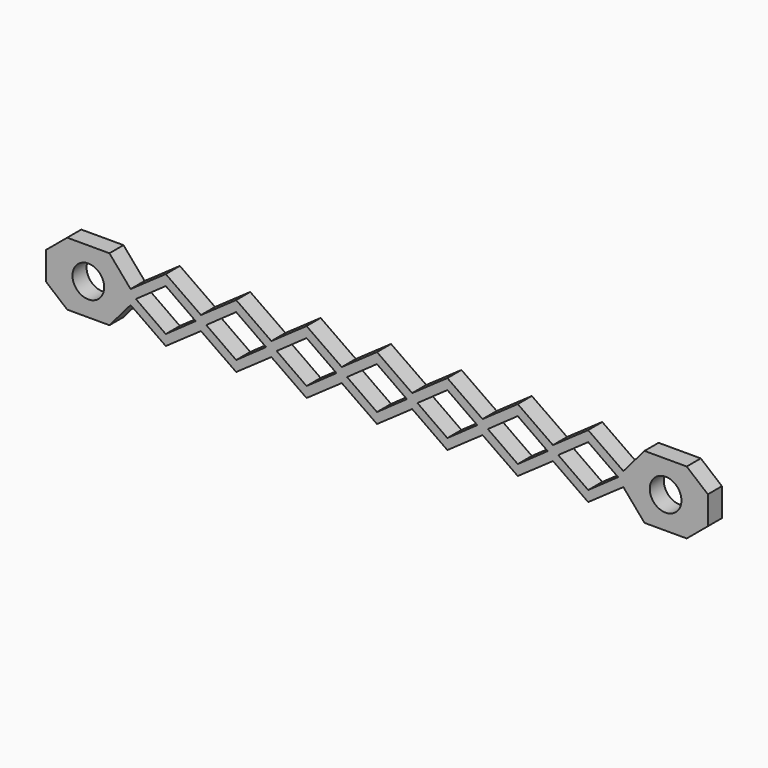
from build123d import *

# Parameters (mm, degrees)
F1_DEPTH = 2.5
F4_DEPTH = 2.5
F5_R     = 2.25
F6_DEPTH = 2.5


with BuildPart() as f1:
    # F0 (on Front) → F1 (new body)
    with BuildSketch(Plane.XZ):
        Polygon((0, 0), (70, 0), (82, 0), (82, 2), (79, 4.5), (73, 4.5), (70, 1), (65, 4.5), (60, 1), (55, 4.5), (50, 1), (45, 4.5), (40, 1), (35, 4.5), (30, 1), (25, 4.5), (20, 1), (15, 4.5), (10, 1), (5, 4.5), (0, 1), (-3, 4.5), (-9, 4.5), (-12, 2), (-12, 0), align=None)
    extrude(amount=F1_DEPTH)

    # F2: F1 across plane


with BuildPart() as f1_1:
    add(f1.part)
    add(f1.part.mirror(Plane.XY))

    # F3 (on face) → F4 (cut, through all)
    with BuildSketch(Plane.XZ.offset(2.5)):
        Polygon((5, 3), (0.75, 0), (5, -3), (9.25, 0), align=None)
        Polygon((25, 3), (20.75, 0), (25, -3), (29.25, 0), align=None)
        Polygon((35, 3), (30.75, 0), (35, -3), (39.25, 0), align=None)
        Polygon((45, 3), (40.75, 0), (45, -3), (49.25, 0), align=None)
        Polygon((55, 3), (50.75, 0), (55, -3), (59.25, 0), align=None)
        Polygon((65, 3), (60.75, 0), (65, -3), (69.25, 0), align=None)
        Polygon((15, 3), (10.75, 0), (15, -3), (19.25, 0), align=None)
    extrude(amount=-F4_DEPTH, mode=Mode.SUBTRACT)

    # F5 (on face) → F6 (cut, through all)
    with BuildSketch(Plane.XZ.offset(2.5)):
        with Locations((-6, 0)):
            Circle(F5_R)
        with Locations((76, 0)):
            Circle(F5_R)
    extrude(amount=-F6_DEPTH, mode=Mode.SUBTRACT)


solid = f1_1.part
